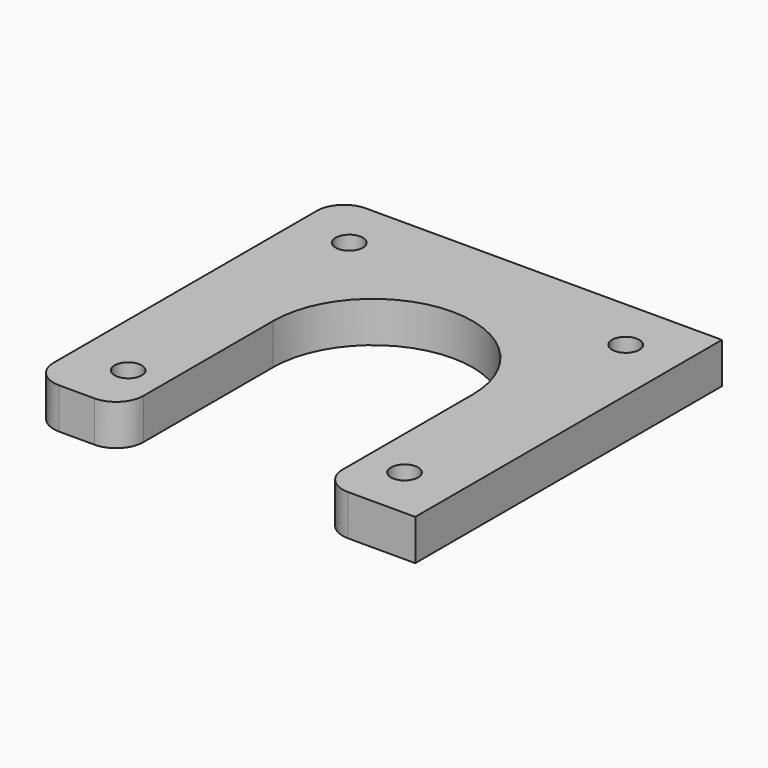
from build123d import *

# Parameters (mm, degrees)
F0_R     = 1.5
F1_DEPTH = 4.5
F2_R     = 3


with BuildPart() as f1:
    # F0 (on Top) → F1 (new body)
    with BuildSketch(Plane.XY):
        with BuildLine():
            Line((22.091176, 20.297059), (-20.208824, 20.297059))
            Line((-20.208824, 20.297059), (-20.208824, -22.002941))
            Line((-20.208824, -22.002941), (-10.308824, -22.002941))
            Line((-10.308824, -22.002941), (-10.308824, -1.102941))
            ThreePointArc((-10.308824, -1.102941), (0.691176, 9.897059), (11.691176, -1.102941))
            Line((11.691176, -1.102941), (11.691176, -22.002941))
            Line((11.691176, -22.002941), (22.091176, -22.002941))
            Line((22.091176, -22.002941), (22.091176, 20.297059))
        make_face()
        with Locations((-14.308824, -16.102941)):
            Circle(F0_R, mode=Mode.SUBTRACT)
        with Locations((16.191176, -16.102941)):
            Circle(F0_R, mode=Mode.SUBTRACT)
        with Locations((-14.308824, 14.397059)):
            Circle(F0_R, mode=Mode.SUBTRACT)
        with Locations((16.191176, 14.397059)):
            Circle(F0_R, mode=Mode.SUBTRACT)
    extrude(amount=F1_DEPTH)

    # F2
    f2_edges = [f1.edges().sort_by_distance(p)[0] for p in [
        (11.691176, -22.002941, 2.25),
        (-10.308824, -22.002941, 2.25),
        (-20.208824, -22.002941, 2.25),
        (-20.208824, 20.297059, 2.25),
    ]]
    fillet(f2_edges, radius=F2_R)


solid = f1.part
